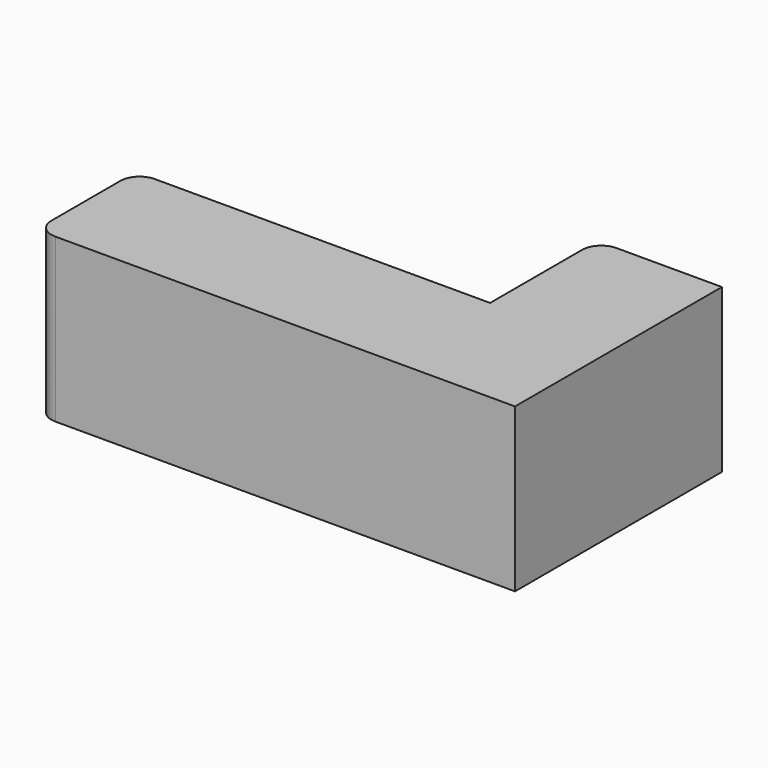
from build123d import *

# Parameters (mm, degrees)
F1_DEPTH = 850
F2_W     = 550
F2_H     = 150
F4_DEPTH = 600
F2_W_2   = 500
F2_H_2   = 750
F5_DEPTH = 10
F3_W     = 500
F3_H     = 750
F8_DEPTH = 10


with BuildPart() as f1:
    # F0 (on Top) → F1 (new body)
    with BuildSketch(Plane.XY):
        with BuildLine():
            Line((-2400, 0), (0, 0))
            Line((0, 0), (0, 1350))
            Line((0, 1350), (-550, 1350))
            ThreePointArc((-550, 1350), (-620.710678, 1320.710678), (-650, 1250))
            Line((-650, 1250), (-650, 650))
            Line((-650, 650), (-2400, 650))
            ThreePointArc((-2400, 650), (-2470.710678, 620.710678), (-2500, 550))
            Line((-2500, 550), (-2500, 100))
            ThreePointArc((-2500, 100), (-2470.710678, 29.289322), (-2400, 0))
        make_face()
    extrude(amount=F1_DEPTH)

    # F2 (on face) → F4 (cut)
    with BuildSketch(Plane(origin=(0, 650, 0), x_dir=(-1, 0, 0), z_dir=(0, 1, 0))):
        with Locations((975, 725)):
            Rectangle(F2_W, F2_H)
        with Locations((975, 525)):
            Rectangle(F2_W, F2_H)
        with Locations((975, 325)):
            Rectangle(F2_W, F2_H)
        with Locations((975, 125)):
            Rectangle(F2_W, F2_H)
    extrude(amount=-F4_DEPTH, mode=Mode.SUBTRACT)

    # F2 (on face) → F5 (join)
    with BuildSketch(Plane(origin=(0, 650, 0), x_dir=(-1, 0, 0), z_dir=(0, 1, 0))):
        with Locations((1550, 425)):
            Rectangle(F2_W_2, F2_H_2)
        with Locations((2100, 425)):
            Rectangle(F2_W_2, F2_H_2)
    extrude(amount=F5_DEPTH)

    # F3 (on face) → F8 (join)
    with BuildSketch(Plane(origin=(-650, 0, 0), x_dir=(0, -1, 0), z_dir=(-1, 0, 0))):
        with Locations((-950, 425)):
            Rectangle(F3_W, F3_H)
    extrude(amount=F8_DEPTH)


solid = f1.part
